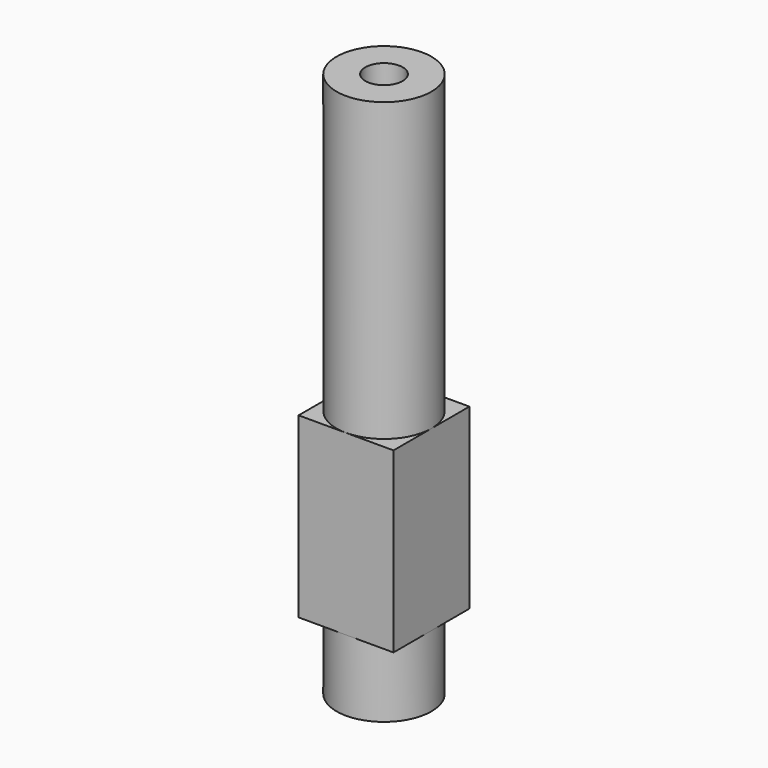
from build123d import *

# Parameters (mm, degrees)
F0_R     = 4
F1_DEPTH = 6
F2_W     = 8
F2_H     = 8
F3_DEPTH = 15
F4_R     = 4
F5_DEPTH = 25
F6_R     = 1.575
F7_DEPTH = 10


with BuildPart() as f1:
    # F0 (on Top) → F1 (new body)
    with BuildSketch(Plane.XY):
        Circle(F0_R)
    extrude(amount=F1_DEPTH)

    # F2 (on face) → F3 (join)
    with BuildSketch(Plane.XY.offset(6)):
        Rectangle(F2_W, F2_H)
    extrude(amount=F3_DEPTH)

    # F4 (on face) → F5 (join)
    with BuildSketch(Plane.XY.offset(21)):
        Circle(F4_R)
    extrude(amount=F5_DEPTH)

    # F6 (on face) → F7 (cut)
    with BuildSketch(Plane.XY.offset(46)):
        Circle(F6_R)
    extrude(amount=-F7_DEPTH, mode=Mode.SUBTRACT)


solid = f1.part
